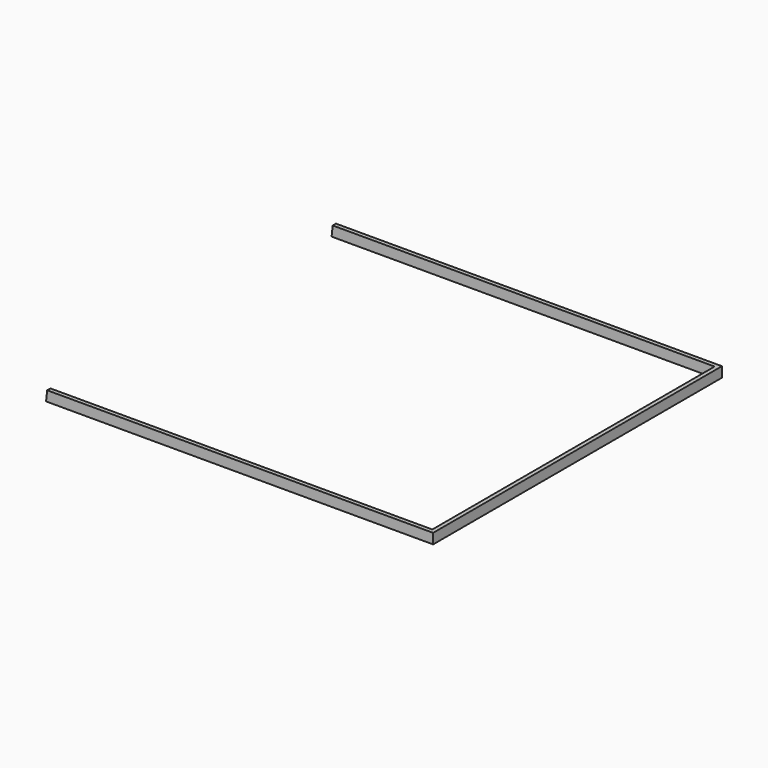
from build123d import *

# Parameters (mm, degrees)
PAD005_DEPTH = 110
BOX049_W     = 117
BOX049_H     = 104
BOX049_DEPTH = 3
BOX048_W     = 118.2
BOX048_H     = 106.4
BOX048_DEPTH = 3


with BuildPart() as pad_rahmen:
    # Sketch010 → Pad005 (new body)
    with BuildSketch(Plane.XZ):
        Polygon((0, 0), (2.01, 0), (6.250278, 40.343548), (0, 40.343548), align=None)
    extrude(amount=-PAD005_DEPTH)


with BuildPart() as cube041:
    # Box049 → Box049 (new body)
    with BuildSketch(Plane(origin=(0, 1.2, 0), x_dir=(1, 0, 0), z_dir=(0, 0, 1))):
        with Locations((58.5, 52)):
            Rectangle(BOX049_W, BOX049_H)
    extrude(amount=BOX049_DEPTH)


with BuildPart() as rahmen_cut:
    # Box048 → Box048 (new body)
    with BuildSketch(Plane.XY):
        with Locations((59.1, 53.2)):
            Rectangle(BOX048_W, BOX048_H)
    extrude(amount=BOX048_DEPTH)

    # Cut048: cut Cube041
    add(cube041.part, mode=Mode.SUBTRACT)


with BuildPart() as rahmen_cut_1:
    # Cut048 placement: moved
    add(rahmen_cut.part.moved(Location((0, 1.8, 20))))

    # Cut049: cut Pad_Rahmen
    add(pad_rahmen.part, mode=Mode.SUBTRACT)


solid = rahmen_cut_1.part
